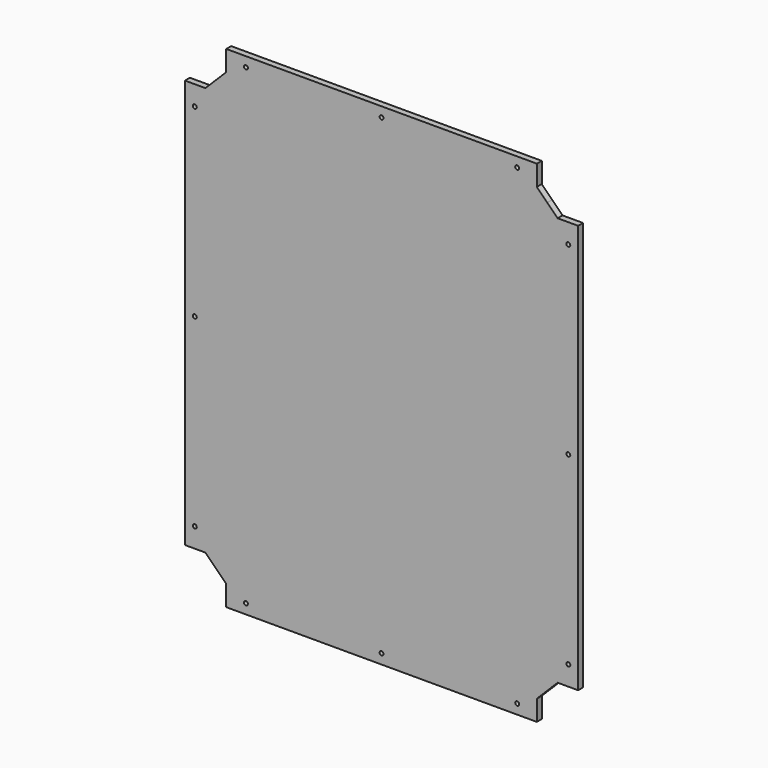
from build123d import *

# Parameters (mm, degrees)
F0_R     = 2.01
F1_DEPTH = 6.25


with BuildPart() as f1:
    # F0 (on Front) → F1 (new body)
    with BuildSketch(Plane.XZ):
        Polygon((179.1715728753, -208), (190, -208), (200, -208), (200, 208), (190, 208), (179.1715728753, 208), (168.5857864376, 218.5857864376), (158, 229.1715728753), (158, 240), (158, 250), (-158, 250), (-158, 240), (-158, 229.1715728753), (-168.5857864376, 218.5857864376), (-179.1715728753, 208), (-190, 208), (-200, 208), (-200, -208), (-190, -208), (-179.1715728753, -208), (-168.5857864376, -218.5857864376), (-158, -229.1715728753), (-158, -240), (-158, -250), (158, -250), (158, -240), (158, -229.1715728753), (168.5857864376, -218.5857864376), align=None)
        with Locations((-190, -188)):
            Circle(F0_R, mode=Mode.SUBTRACT)
        with Locations((-138, -240)):
            Circle(F0_R, mode=Mode.SUBTRACT)
        with Locations((0, -240)):
            Circle(F0_R, mode=Mode.SUBTRACT)
        with Locations((138, -240)):
            Circle(F0_R, mode=Mode.SUBTRACT)
        with Locations((190, -188)):
            Circle(F0_R, mode=Mode.SUBTRACT)
        with Locations((-190, 0)):
            Circle(F0_R, mode=Mode.SUBTRACT)
        with Locations((-190, 188)):
            Circle(F0_R, mode=Mode.SUBTRACT)
        with Locations((-138, 240)):
            Circle(F0_R, mode=Mode.SUBTRACT)
        with Locations((190, 0)):
            Circle(F0_R, mode=Mode.SUBTRACT)
        with Locations((0, 240)):
            Circle(F0_R, mode=Mode.SUBTRACT)
        with Locations((138, 240)):
            Circle(F0_R, mode=Mode.SUBTRACT)
        with Locations((190, 188)):
            Circle(F0_R, mode=Mode.SUBTRACT)
        Polygon((179.1715728753, -208), (190, -208), (200, -208), (200, 208), (190, 208), (179.1715728753, 208), (168.5857864376, 218.5857864376), (158, 229.1715728753), (158, 240), (158, 250), (-158, 250), (-158, 240), (-158, 229.1715728753), (-168.5857864376, 218.5857864376), (-179.1715728753, 208), (-190, 208), (-200, 208), (-200, -208), (-190, -208), (-179.1715728753, -208), (-168.5857864376, -218.5857864376), (-158, -229.1715728753), (-158, -240), (-158, -250), (158, -250), (158, -240), (158, -229.1715728753), (168.5857864376, -218.5857864376), align=None)
        with Locations((-190, -188)):
            Circle(F0_R, mode=Mode.SUBTRACT)
        with Locations((-138, -240)):
            Circle(F0_R, mode=Mode.SUBTRACT)
        with Locations((0, -240)):
            Circle(F0_R, mode=Mode.SUBTRACT)
        with Locations((138, -240)):
            Circle(F0_R, mode=Mode.SUBTRACT)
        with Locations((190, -188)):
            Circle(F0_R, mode=Mode.SUBTRACT)
        with Locations((-190, 0)):
            Circle(F0_R, mode=Mode.SUBTRACT)
        with Locations((-190, 188)):
            Circle(F0_R, mode=Mode.SUBTRACT)
        with Locations((-138, 240)):
            Circle(F0_R, mode=Mode.SUBTRACT)
        with Locations((190, 0)):
            Circle(F0_R, mode=Mode.SUBTRACT)
        with Locations((0, 240)):
            Circle(F0_R, mode=Mode.SUBTRACT)
        with Locations((138, 240)):
            Circle(F0_R, mode=Mode.SUBTRACT)
        with Locations((190, 188)):
            Circle(F0_R, mode=Mode.SUBTRACT)
    extrude(amount=F1_DEPTH)


solid = f1.part
